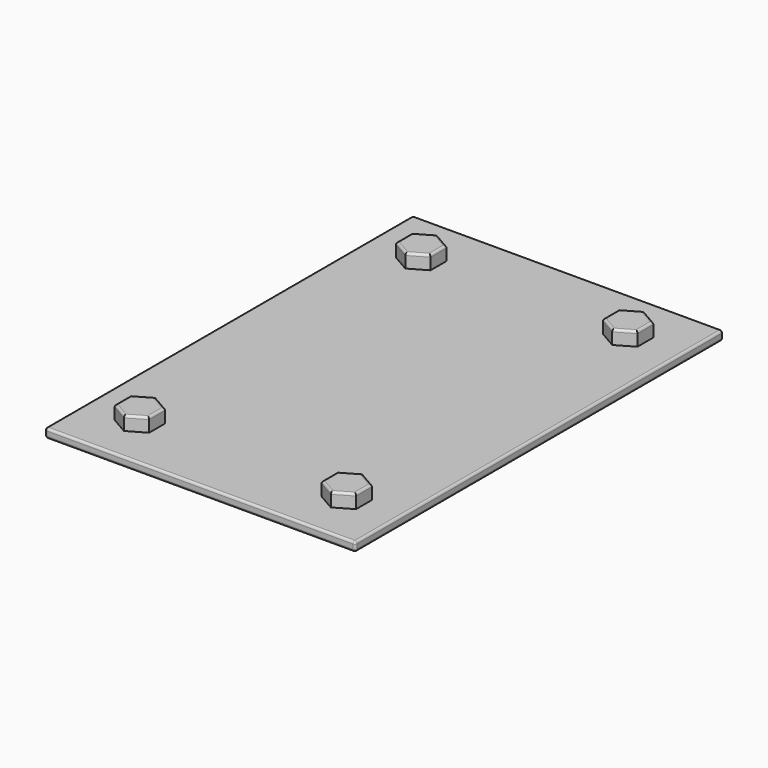
from build123d import *

# Parameters (mm, degrees)
F0_W     = 135
F0_H     = 200
F1_DEPTH = 4
F2_R     = 1
F4_DEPTH = 6
F5_R     = 1


with BuildPart() as f1:
    # F0 (on Top) → F1 (new body)
    with BuildSketch(Plane.XY):
        with Locations((67.5, 100)):
            Rectangle(F0_W, F0_H)
    extrude(amount=F1_DEPTH)

    # F2
    f2_edges = [f1.edges().sort_by_distance(p)[0] for p in [
        (0, 100, 4),
        (67.5, 0, 4),
        (135, 100, 4),
        (67.5, 200, 4),
        (0, 100, 0),
        (67.5, 0, 0),
        (135, 100, 0),
        (67.5, 200, 0),
        (135, 0, 2),
        (0, 0, 2),
        (135, 200, 2),
        (0, 200, 2),
    ]]
    fillet(f2_edges, radius=F2_R)

    # F3 (on face) → F4 (join)
    with BuildSketch(Plane.XY.offset(4)):
        Polygon((22.5, 167.839746), (30, 172.169873), (30, 180.830127), (22.5, 185.160254), (15, 180.830127), (15, 172.169873), align=None)
        Polygon((120, 180.830127), (112.5, 185.160254), (105, 180.830127), (105, 172.169873), (112.5, 167.839746), (120, 172.169873), align=None)
        Polygon((30, 19.169873), (30, 27.830127), (22.5, 32.160254), (15, 27.830127), (15, 19.169873), (22.5, 14.839746), align=None)
        Polygon((105, 19.169873), (112.5, 14.839746), (120, 19.169873), (120, 27.830127), (112.5, 32.160254), (105, 27.830127), align=None)
    extrude(amount=F4_DEPTH)

    # F5
    f5_edges = [f1.edges().sort_by_distance(p)[0] for p in [
        (18.75, 170.004809, 10),
        (26.25, 170.004809, 10),
        (30, 176.5, 10),
        (26.25, 182.995191, 10),
        (18.75, 182.995191, 10),
        (15, 176.5, 10),
        (120, 176.5, 10),
        (116.25, 182.995191, 10),
        (108.75, 182.995191, 10),
        (105, 176.5, 10),
        (108.75, 170.004809, 10),
        (116.25, 170.004809, 10),
        (108.75, 29.995191, 10),
        (105, 23.5, 10),
        (108.75, 17.004809, 10),
        (116.25, 17.004809, 10),
        (120, 23.5, 10),
        (116.25, 29.995191, 10),
        (26.25, 17.004809, 10),
        (30, 23.5, 10),
        (26.25, 29.995191, 10),
        (18.75, 29.995191, 10),
        (15, 23.5, 10),
        (18.75, 17.004809, 10),
    ]]
    fillet(f5_edges, radius=F5_R)


solid = f1.part
